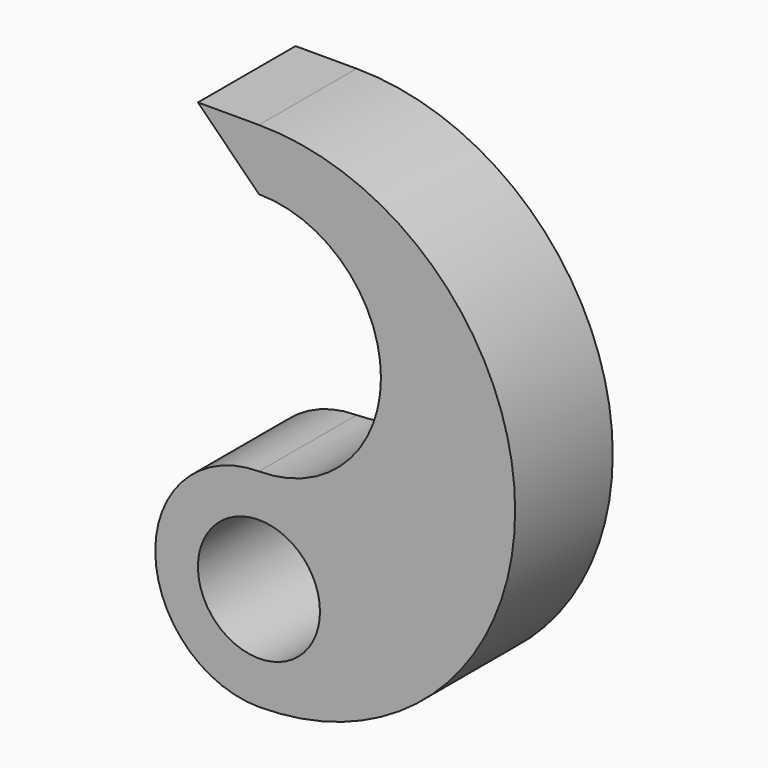
from build123d import *

# Parameters (mm, degrees)
F0_R     = 10
F1_DEPTH = 10


with BuildPart() as f1:
    # F0 (on Front) → F1 (new body, symmetric)
    with BuildSketch(Plane.XZ):
        with BuildLine():
            ThreePointArc((0, 17), (-17, 0), (0, -17))
            ThreePointArc((0, -17), (42, 25), (0, 67))
            Line((0, 67), (-10, 67))
            Line((-10, 67), (0, 57))
            ThreePointArc((0, 57), (20, 37), (0, 17))
        make_face()
        Circle(F0_R, mode=Mode.SUBTRACT)
    extrude(amount=F1_DEPTH, both=True)


solid = f1.part
